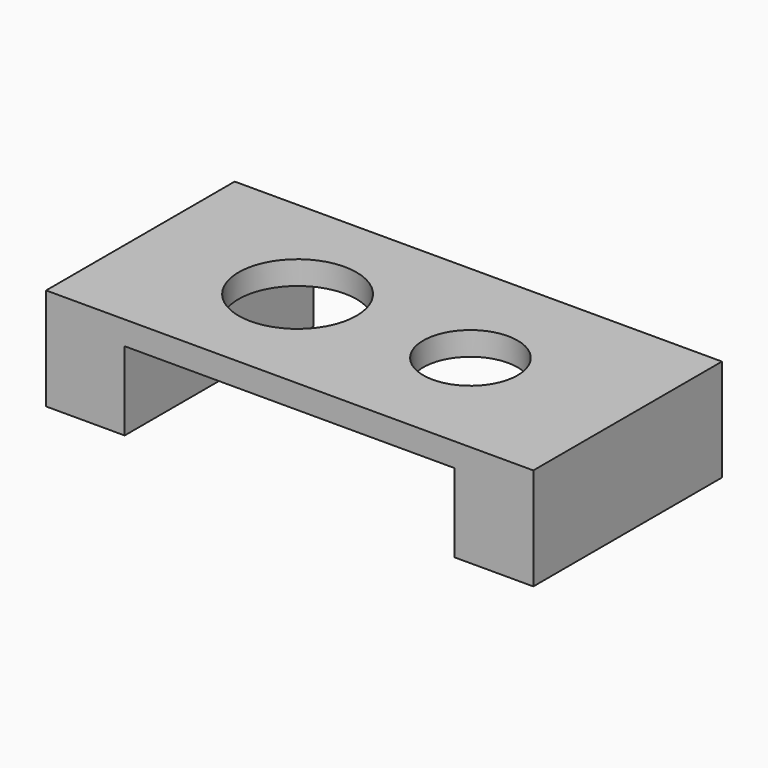
from build123d import *

# Parameters (mm, degrees)
F1_DEPTH = 30
F2_R     = 7.5
F2_R_2   = 6
F3_DEPTH = 13.001


with BuildPart() as f1:
    # F0 (on Front) → F1 (new body)
    with BuildSketch(Plane.XZ):
        Polygon((62, 0), (0, 0), (0, -13), (10, -13), (10, -3), (52, -3), (52, -13), (62, -13), align=None)
    extrude(amount=F1_DEPTH)

    # F2 (on face) → F3 (cut, through all)
    with BuildSketch(Plane.XY):
        with Locations((20, -15)):
            Circle(F2_R)
        with Locations((42, -15)):
            Circle(F2_R_2)
    extrude(amount=-F3_DEPTH, mode=Mode.SUBTRACT)


solid = f1.part
